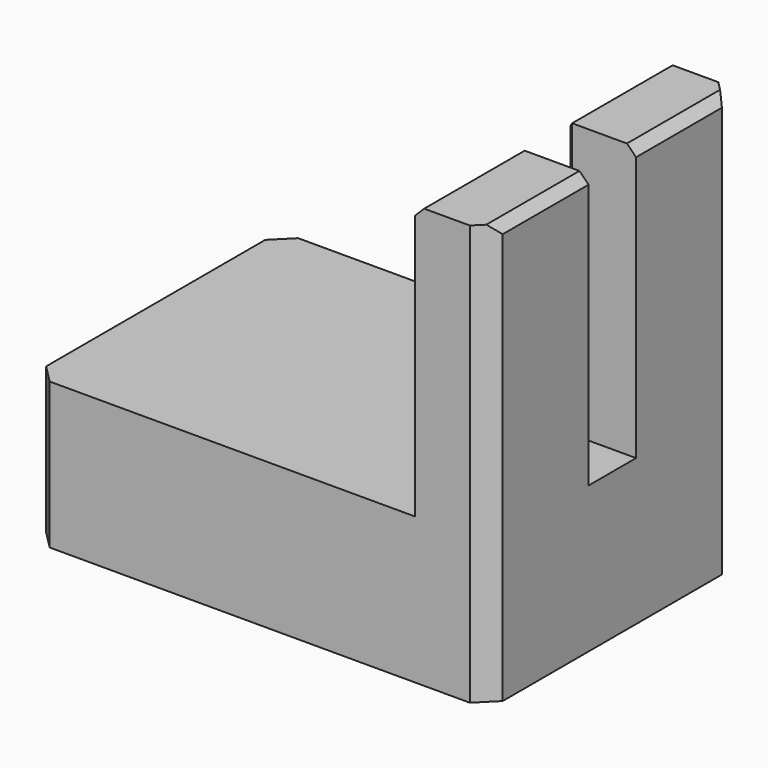
from build123d import *

# Parameters (mm, degrees)
F1_DEPTH = 34
F2_W     = 6.5
F2_H     = 30
F3_DEPTH = 8
F4_R     = 3.5
F5_DEPTH = 6
F6_SIZE  = 1
F7_SIZE  = 2


with BuildPart() as f1:
    # F0 (on Front) → F1 (new body)
    with BuildSketch(Plane.XZ):
        Polygon((-20, 8), (-25, 8), (-25, -8), (25, -8), (25, 38), (17, 38), (17, 8), align=None)
    extrude(amount=F1_DEPTH)

    # F2 (on face) → F3 (cut, through all)
    with BuildSketch(Plane.YZ.offset(25)):
        with Locations((-17, 23)):
            Rectangle(F2_W, F2_H)
    extrude(amount=-F3_DEPTH, mode=Mode.SUBTRACT)

    # F4 (on face) → F5 (cut)
    with BuildSketch(Plane(origin=(-25, 0, 0), x_dir=(0, -1, 0), z_dir=(-1, 0, 0))):
        with Locations((17, 0)):
            Circle(F4_R)
    extrude(amount=-F5_DEPTH, mode=Mode.SUBTRACT)

    # F6
    f6_edges = [f1.edges().sort_by_distance(p)[0] for p in [
        (25, -6.875, 38),
        (25, -27.125, 38),
        (17, -6.875, 38),
        (17, -27.125, 38),
        (17, -13.75, 23),
        (17, -20.25, 23),
    ]]
    chamfer(f6_edges, length=F6_SIZE)

    # F7
    f7_edges = [f1.edges().sort_by_distance(p)[0] for p in [
        (25, -34, 14.5),
        (-25, -34, 0),
        (25, 0, 14.5),
        (-25, 0, 0),
    ]]
    chamfer(f7_edges, length=F7_SIZE)


solid = f1.part
